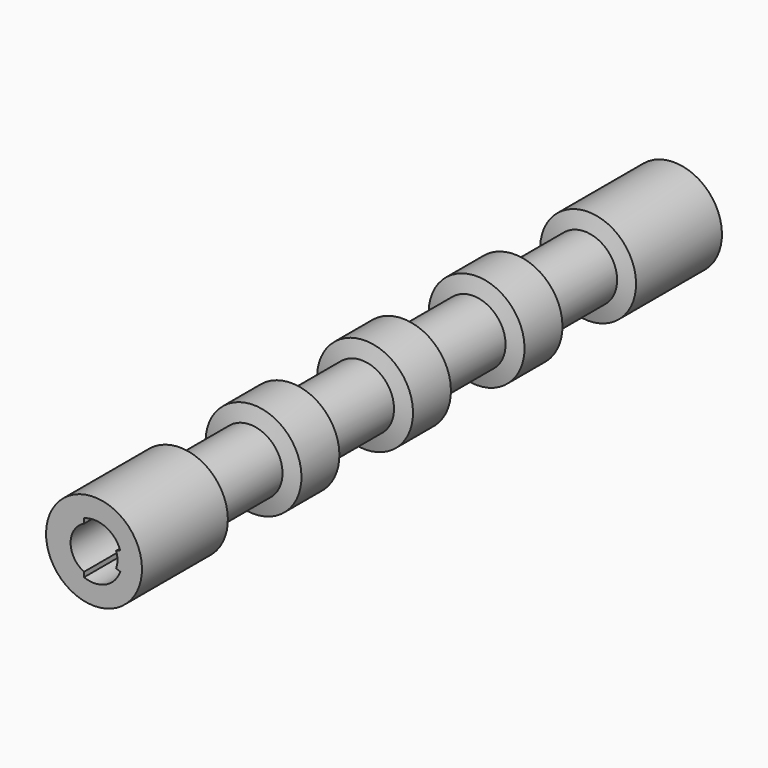
from build123d import *

# Parameters (mm, degrees)
POCKET_DEPTH = 82.551


with BuildPart() as part:
    # Sketch → Revolution (revolve)
    with BuildSketch(Plane.YZ):
        Polygon((0, 0), (82.55, 0), (82.55, -5.461), (70.326414, -5.461), (69.85, -3.683), (60.325, -3.683), (59.848586, -5.461), (54.451414, -5.461), (53.975, -3.683), (44.45, -3.683), (43.973586, -5.461), (38.576414, -5.461), (38.1, -3.683), (28.575, -3.683), (28.098586, -5.461), (22.701414, -5.461), (22.225, -3.683), (12.7, -3.683), (12.223586, -5.461), (0, -5.461), align=None)
    revolve(axis=Axis((0, 0, 0), (0, 1, 0)))

    # Sketch002 → Pocket (cut, through all)
    with BuildSketch(Plane.XZ):
        with BuildLine():
            ThreePointArc((-1.135923, 2.413), (-2.667, 0), (-1.135923, -2.413))
            Line((-1.135923, -2.413), (-1.135923, -2.964845))
            ThreePointArc((-1.135923, -2.964845), (1.330891, -2.882595), (2.993419, -1.058333))
            Line((2.514472, -0.889), (2.993419, -1.058333))
            ThreePointArc((2.514472, -0.889), (2.667, 0), (2.514472, 0.889))
            Line((2.993419, 1.058333), (2.514472, 0.889))
            ThreePointArc((2.993419, 1.058333), (1.330891, 2.882595), (-1.135923, 2.964845))
            Line((-1.135923, 2.964845), (-1.135923, 2.413))
        make_face()
    extrude(amount=-POCKET_DEPTH, mode=Mode.SUBTRACT)


solid = part.part
